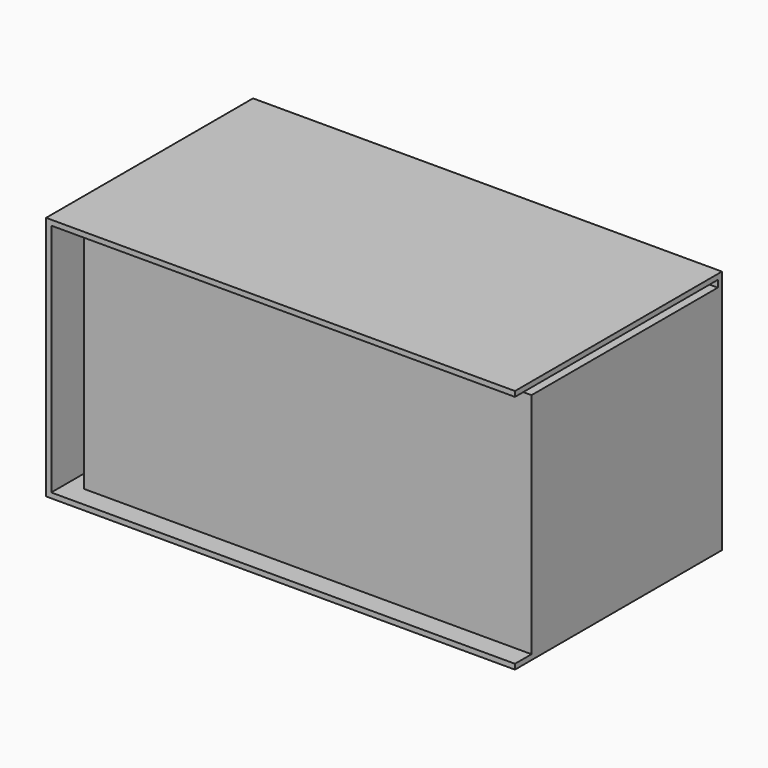
from build123d import *

# Parameters (mm, degrees)
F1_DEPTH = 127
F2_T     = -2.54
F3_W     = 219.6087762713
F3_H     = 111.9595093346
F4_DEPTH = 114.3


with BuildPart() as f1:
    # F0 (on Front) → F1 (new body)
    with BuildSketch(Plane.XZ):
        Polygon((-9.013194183, 43.6832010746), (-153.9823263884, 43.6832010746), (-153.9823263884, -76.7388492823), (76.2072727084, -76.7388492823), (76.2072727084, -73.0584636331), (-135.6322020292, -73.0584636331), (-38.0154103041, 16.9434007257), align=None)
        Polygon((76.2072727084, 43.6832010746), (-9.013194183, 43.6832010746), (-38.0154103041, 16.9434007257), (76.2072727084, 16.9434007257), align=None)
        Polygon((76.2072727084, 16.9434007257), (-38.0154103041, 16.9434007257), (-135.6322020292, -73.0584636331), (76.2072727084, -73.0584636331), align=None)
    extrude(amount=F1_DEPTH)

    # F2
    f2_openings = [f1.faces().sort_by_distance(p)[0] for p in [
        (-38.887527, -127, -16.527824),
        (76.207273, -63.5, -16.527824),
    ]]
    offset(amount=F2_T, openings=f2_openings)

    # F3 (on face) → F4 (join)
    with BuildSketch(Plane.XZ.offset(2.54)):
        with Locations((-33.5971154273, -18.219094615)):
            Rectangle(F3_W, F3_H)
    extrude(amount=F4_DEPTH)


solid = f1.part
